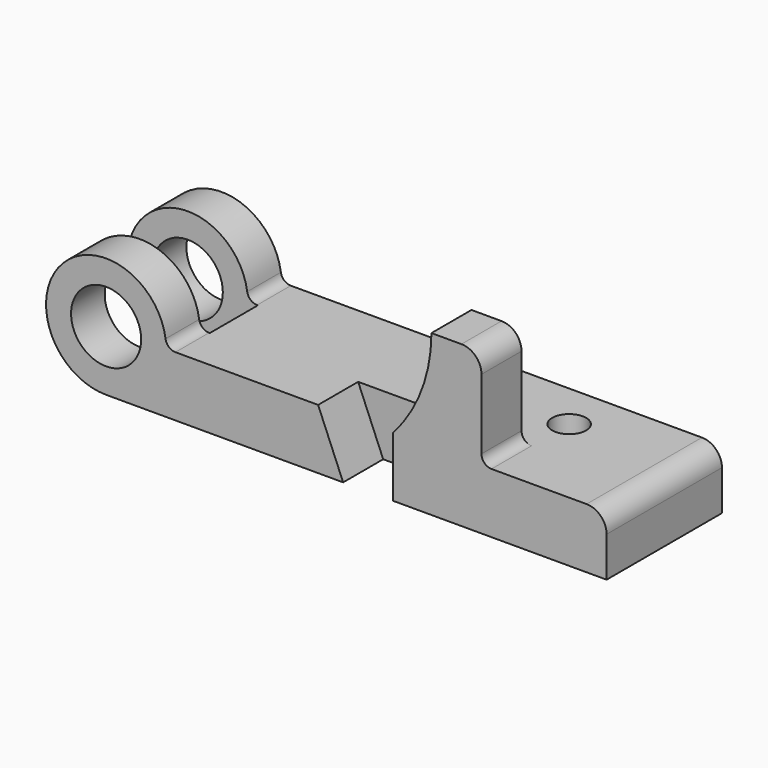
from build123d import *

# Parameters (mm, degrees)
F0_R      = 7
F1_DEPTH  = 28.8
F4_DEPTH  = 12
F6_DEPTH  = 10
F8_DEPTH  = 10
F9_R      = 3.4
F10_DEPTH = 12
F11_R     = 2
F12_R     = 4


with BuildPart() as f1:
    # F0 (on Front) → F1 (new body)
    with BuildSketch(Plane.XZ):
        with BuildLine():
            Line((100, 0), (12, 0))
            ThreePointArc((12, 0), (-8.4852813742, 8.4852813742), (0, -12))
            Line((0, -12), (100, -12))
            Line((100, -12), (100, 0))
        make_face()
        Circle(F0_R, mode=Mode.SUBTRACT)
    extrude(amount=F1_DEPTH)

    # F3 (on offset) → F4 (cut)
    with BuildSketch(Plane.XZ.offset(20.4)):
        with BuildLine():
            Line((14, -12), (14, 0))
            Line((14, 0), (12, 0))
            ThreePointArc((12, 0), (-8.4852813742, 8.4852813742), (0, -12))
            Line((0, -12), (14, -12))
        make_face()
    extrude(amount=-F4_DEPTH, mode=Mode.SUBTRACT)

    # F5 (on face) → F6 (join)
    with BuildSketch(Plane.XZ.offset(28.8)):
        with BuildLine():
            Line((57.36, 0), (65, 0))
            Line((65, 0), (75, 0))
            Line((75, 0), (75, 20))
            Line((75, 20), (65, 20))
            ThreePointArc((65, 20), (63.0248532563, 9.2952660561), (57.36, 0))
        make_face()
    extrude(amount=-F6_DEPTH)

    # F7 (on face) → F8 (cut, through all)
    with BuildSketch(Plane.XZ.offset(28.8)):
        Polygon((57.36, -12), (57.36, 0), (42.36, 0), (47.36, -12), align=None)
    extrude(amount=-F8_DEPTH, mode=Mode.SUBTRACT)

    # F9 (on face) → F10 (cut, through all)
    with BuildSketch(Plane.XY):
        with Locations((77, -9.4)):
            Circle(F9_R)
    extrude(amount=-F10_DEPTH, mode=Mode.SUBTRACT)

    # F11
    f11_edges = [f1.edges().sort_by_distance(p)[0] for p in [
        (75, -23.8, 0),
        (12, -24.6, 0),
        (12, -4.2, 0),
    ]]
    fillet(f11_edges, radius=F11_R)

    # F12
    f12_edges = [f1.edges().sort_by_distance(p)[0] for p in [
        (75, -23.8, 20),
        (100, -14.4, 0),
    ]]
    fillet(f12_edges, radius=F12_R)


solid = f1.part
